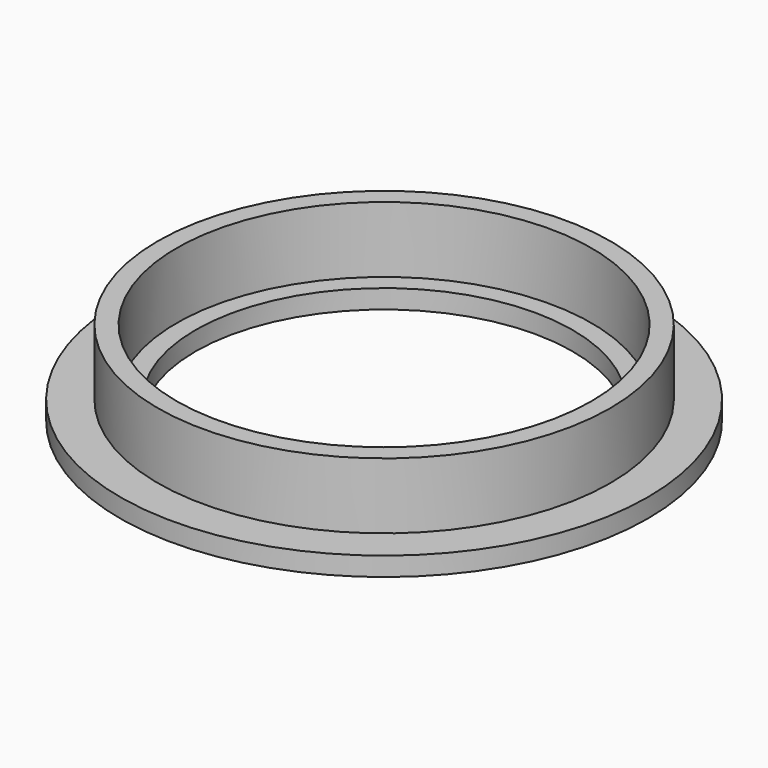
from build123d import *

# Parameters (mm, degrees)
F0_R     = 12
F0_R_2   = 11
F1_DEPTH = 4.5
F0_R_3   = 14
F0_R_4   = 10
F2_DEPTH = 1


with BuildPart() as f1:
    # F0 (on Top) → F1 (new body)
    with BuildSketch(Plane.XY):
        Circle(F0_R)
        Circle(F0_R_2, mode=Mode.SUBTRACT)
    extrude(amount=F1_DEPTH)

    # F0 (on Top) → F2 (join)
    with BuildSketch(Plane.XY):
        Circle(F0_R_3)
        Circle(F0_R, mode=Mode.SUBTRACT)
        Circle(F0_R_2)
        Circle(F0_R_4, mode=Mode.SUBTRACT)
    extrude(amount=F2_DEPTH)


solid = f1.part
